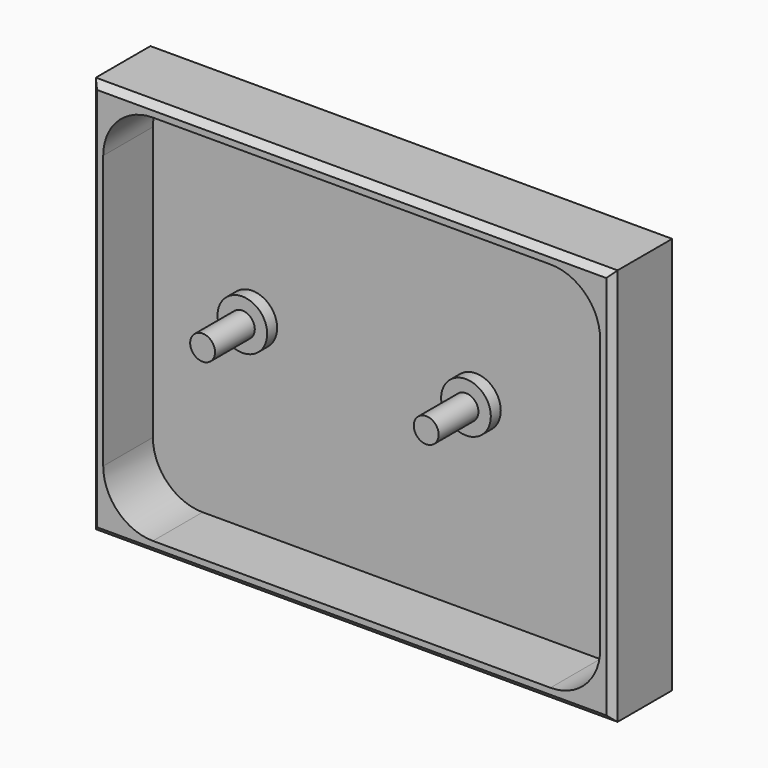
from build123d import *

# Parameters (mm, degrees)
F0_W     = 133.35
F0_H     = 101.6
F1_DEPTH = 19.05
F2_T     = -3.175
F3_R     = 6.35
F4_DEPTH = 3.175
F5_R     = 3.175
F6_DEPTH = 12.7
F7_R     = 3.175
F8_DEPTH = 12.7
F9_R     = 12.7
F10_SIZE = 1.6002


with BuildPart() as f1:
    # F0 (on Front) → F1 (new body)
    with BuildSketch(Plane.XZ):
        with Locations((66.675, 64.0058868719)):
            Rectangle(F0_W, F0_H)
    extrude(amount=F1_DEPTH)

    # F2
    f2_openings = [f1.faces().sort_by_distance(p)[0] for p in [
        (66.675, -19.05, 64.005887),
    ]]
    offset(amount=F2_T, openings=f2_openings)

    # F3 (on face) → F4 (join)
    with BuildSketch(Plane.XZ.offset(3.175)):
        with Locations((28.575, 64.0058868719)):
            Circle(F3_R)
        with Locations((85.725, 64.0058868719)):
            Circle(F3_R)
    extrude(amount=F4_DEPTH)

    # F5 (on face) → F6 (join)
    with BuildSketch(Plane.XZ.offset(6.35)):
        with Locations((28.575, 64.0058868719)):
            Circle(F5_R)
    extrude(amount=F6_DEPTH)

    # F7 (on face) → F8 (join)
    with BuildSketch(Plane.XZ.offset(6.35)):
        with Locations((85.725, 64.0058868719)):
            Circle(F7_R)
    extrude(amount=F8_DEPTH)

    # F9
    f9_edges = [f1.edges().sort_by_distance(p)[0] for p in [
        (3.175, -11.1125, 111.630887),
        (3.175, -11.1125, 16.380887),
        (130.175, -11.1125, 111.630887),
        (130.175, -11.1125, 16.380887),
    ]]
    fillet(f9_edges, radius=F9_R)

    # F10
    f10_edges = [f1.edges().sort_by_distance(p)[0] for p in [
        (66.675, -19.05, 114.805887),
        (66.675, -19.05, 13.205887),
        (133.35, -19.05, 64.005887),
        (0, -19.05, 64.005887),
    ]]
    chamfer(f10_edges, length=F10_SIZE)


solid = f1.part
